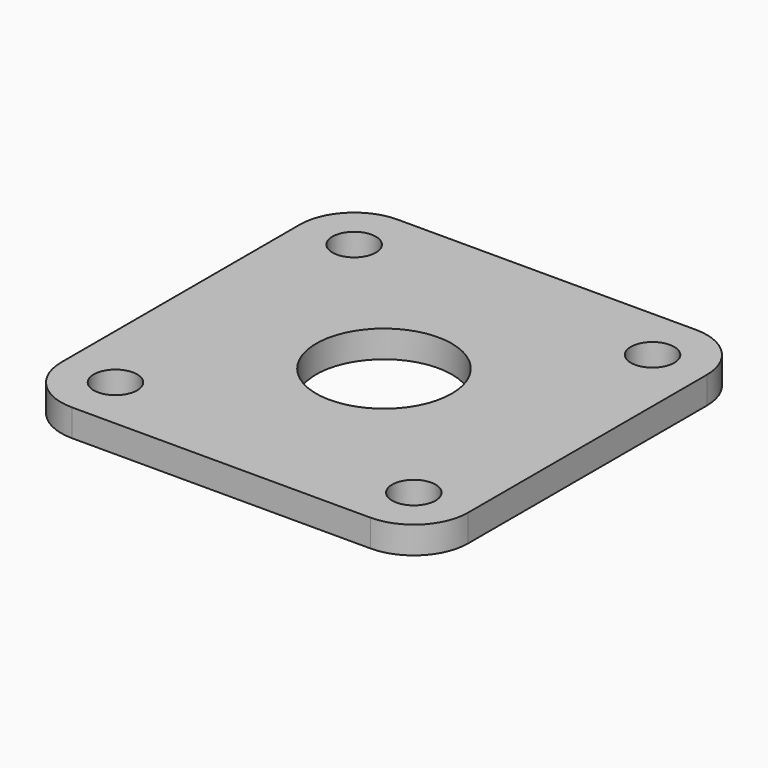
from build123d import *

# Parameters (mm, degrees)
CYLINDER057_R       = 5
CYLINDER057_DEPTH   = 15
CYLINDER058_R       = 1.6
CYLINDER058_DEPTH   = 20
ARRAY001029_X_COUNT = 2
ARRAY001029_X_PITCH = 22
ARRAY001029_Y_COUNT = 2
ARRAY001029_Y_PITCH = 22
BOX007_W            = 30
BOX007_H            = 30
BOX007_DEPTH        = 2
FILLET013_R         = 4


with BuildPart() as side_bearing_central_hole_cylinder001:
    # Cylinder057 → Cylinder057 (new body)
    with BuildSketch(Plane(origin=(15, 15, -4), x_dir=(1, 0, 0), z_dir=(0, 0, 1))):
        Circle(CYLINDER057_R)
    extrude(amount=CYLINDER057_DEPTH)


with BuildPart() as fusion039:
    # Cylinder058 → Cylinder058 (new body)
    with BuildSketch(Plane(origin=(4, 4, -7), x_dir=(1, 0, 0), z_dir=(0, 0, 1))):
        Circle(CYLINDER058_R)
    extrude(amount=CYLINDER058_DEPTH)

    # Array001029 X: Fusion039 ×2


with BuildPart() as fusion039_1:
    add(fusion039.part)
    with Locations(*[(i * ARRAY001029_X_PITCH, 0, 0) for i in range(1, ARRAY001029_X_COUNT)]):
        add(fusion039.part)

    # Array001029 Y: Fusion039 ×2


with BuildPart() as fusion039_2:
    add(fusion039_1.part)
    with Locations(*[(0, i * ARRAY001029_Y_PITCH, 0) for i in range(1, ARRAY001029_Y_COUNT)]):
        add(fusion039_1.part)

    # Fusion039: union side bearing central hole cylinder001
    add(side_bearing_central_hole_cylinder001.part)


with BuildPart() as bearing_cover_fillet:
    # Box007 → Box007 (new body)
    with BuildSketch(Plane.XY):
        with Locations((15, 15)):
            Rectangle(BOX007_W, BOX007_H)
    extrude(amount=BOX007_DEPTH)

    # Cut023004: cut Fusion039
    add(fusion039_2.part, mode=Mode.SUBTRACT)

    # Fillet013
    fillet013_edges = [bearing_cover_fillet.edges().sort_by_distance(p)[0] for p in [
        (0, 0, 1),
        (0, 30, 1),
        (30, 0, 1),
        (30, 30, 1),
    ]]
    fillet(fillet013_edges, radius=FILLET013_R)


solid = bearing_cover_fillet.part
